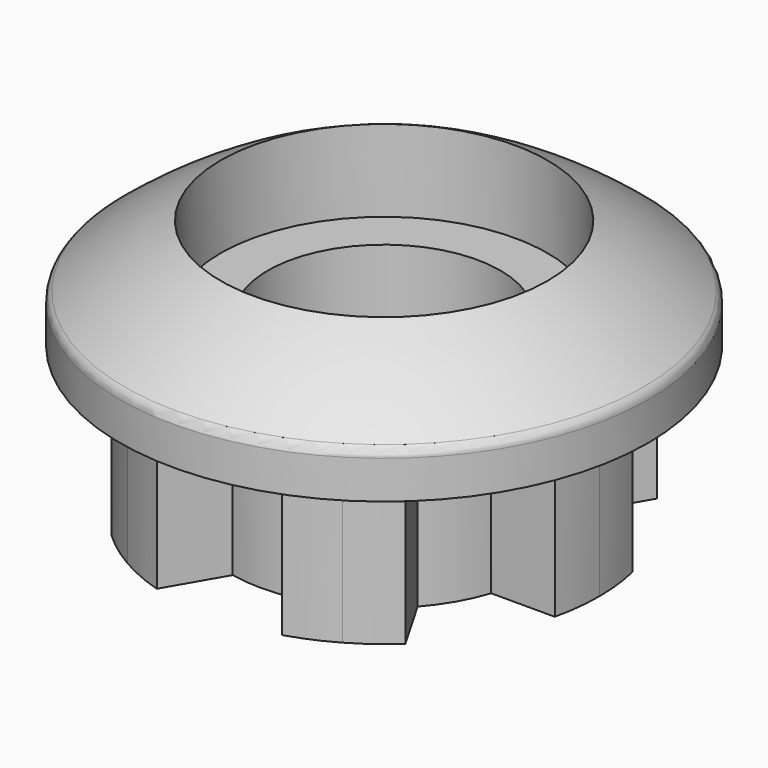
from build123d import *

# Parameters (mm, degrees)
F3_DEPTH = 12


with BuildPart() as f1:
    # F0 (on Front) → F1 (revolve)
    with BuildSketch(Plane.XZ):
        with BuildLine():
            Line((9.25, 0), (12.25, 0))
            Line((12.25, 0), (12.25, 12))
            Line((12.25, 12), (21, 12))
            Line((21, 12), (21, 15.0320822151))
            ThreePointArc((21, 15.0320822151), (20.904473051, 15.4586129878), (20.636143, 15.8036533937))
            ThreePointArc((20.636143, 15.8036533937), (16.960056141, 18.4960218137), (13, 20.75))
            Line((13, 20.75), (13, 14.25))
            Line((13, 14.25), (9.25, 14.25))
            Line((9.25, 14.25), (9.25, 0))
        make_face()
    revolve(axis=Axis((0, 0, 18.5648277402), (0, 0, -1)))

    # F2 (on face) → F3 (join, through all)
    with BuildSketch(Plane(origin=(0, 0, 0), x_dir=(1, 0, 0), z_dir=(0, 0, -1))):
        with BuildLine():
            ThreePointArc((-11.6209670424, -3.875), (-12.25, 0), (-11.6209670424, 3.875))
            Line((-11.6209670424, 3.875), (-16.6766869451, 3.875))
            ThreePointArc((-16.6766869451, 3.875), (-17.0095343856, 1.9501929267), (-17.1209670424, 0))
            ThreePointArc((-17.1209670424, 0), (-17.0095343856, -1.9501929267), (-16.6766869451, -3.875))
            Line((-16.6766869451, -3.875), (-11.6209670424, -3.875))
        make_face()
        with BuildLine():
            ThreePointArc((-2.4546350815, -12.0015526752), (-6.125, -10.6088111964), (-9.1663319609, -8.1265526752))
            Line((-9.1663319609, -8.1265526752), (-11.6941919122, -12.5049345454))
            ThreePointArc((-11.6941919122, -12.5049345454), (-10.1936839089, -13.7555923475), (-8.5604837353, -14.8271922724))
            ThreePointArc((-8.5604837353, -14.8271922724), (-6.8158506894, -15.7057852986), (-4.9824950329, -16.3799345454))
            Line((-4.9824950329, -16.3799345455), (-2.4546350815, -12.0015526752))
        make_face()
        with BuildLine():
            ThreePointArc((9.1663319609, -8.1265526752), (6.125, -10.6088111964), (2.4546350815, -12.0015526752))
            Line((2.4546350815, -12.0015526752), (4.9824950329, -16.3799345455))
            ThreePointArc((4.9824950329, -16.3799345454), (6.8158505368, -15.7057853648), (8.5604834471, -14.8271924388))
            ThreePointArc((8.5604834471, -14.8271924388), (10.1936837752, -13.7555924466), (11.6941919122, -12.5049345454))
            Line((11.6941919122, -12.5049345454), (9.1663319609, -8.1265526752))
        make_face()
        with BuildLine():
            Line((16.6766869451, 3.875), (11.6209670424, 3.875))
            ThreePointArc((11.6209670424, 3.875), (12.0917191968, 1.9628619069), (12.25, 0))
            ThreePointArc((12.25, 0), (12.0917191968, -1.9628619069), (11.6209670424, -3.875))
            Line((11.6209670424, -3.875), (16.6766869451, -3.875))
            ThreePointArc((16.6766869451, -3.875), (17.0095343856, -1.9501929267), (17.1209670424, 0))
            ThreePointArc((17.1209670424, 0), (17.0095343856, 1.9501929267), (16.6766869451, 3.875))
        make_face()
        with BuildLine():
            Line((4.9824950329, 16.3799345455), (2.4546350815, 12.0015526752))
            ThreePointArc((2.4546350815, 12.0015526752), (6.125, 10.6088111964), (9.1663319609, 8.1265526752))
            Line((9.1663319609, 8.1265526752), (11.6941919122, 12.5049345454))
            ThreePointArc((11.6941919122, 12.5049345454), (10.1936837017, 13.7555925011), (8.5604832886, 14.8271925303))
            ThreePointArc((8.5604832886, 14.8271925303), (6.8158504529, 15.7057854013), (4.9824950329, 16.3799345454))
        make_face()
        with BuildLine():
            Line((-11.6941919122, 12.5049345454), (-9.1663319609, 8.1265526752))
            ThreePointArc((-9.1663319609, 8.1265526752), (-6.125, 10.6088111964), (-2.4546350815, 12.0015526752))
            Line((-2.4546350815, 12.0015526752), (-4.9824950329, 16.3799345455))
            ThreePointArc((-4.9824950329, 16.3799345454), (-6.8158505368, 15.7057853648), (-8.5604834471, 14.8271924388))
            ThreePointArc((-8.5604834471, 14.8271924388), (-10.1936837752, 13.7555924466), (-11.6941919122, 12.5049345454))
        make_face()
    extrude(amount=-F3_DEPTH)


solid = f1.part
